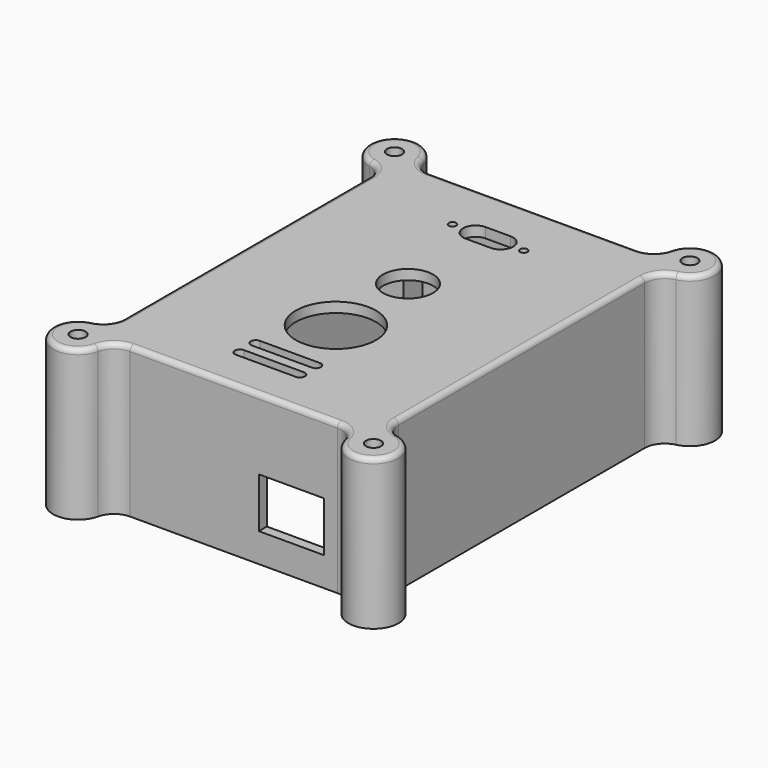
from build123d import *

# Parameters (mm, degrees)
SKETCH_R        = 1.5
PAD_DEPTH       = 30
SKETCH001_W     = 51
SKETCH001_H     = 71
POCKET_DEPTH    = 28
SKETCH002_W     = 4.8
SKETCH002_H     = 4.8
SKETCH002_R     = 0.9
PAD001_DEPTH    = 23
SKETCH003_W     = 4.8
SKETCH003_H     = 4.8
SKETCH003_R     = 0.9
PAD002_DEPTH    = 23
SKETCH004_W     = 4.8
SKETCH004_H     = 4.8
SKETCH004_R     = 0.9
PAD003_DEPTH    = 23
SKETCH005_W     = 4.8
SKETCH005_H     = 4.8
SKETCH005_R     = 0.9
PAD004_DEPTH    = 23
SKETCH006_R     = 5
POCKET001_DEPTH = 5
SKETCH007_R     = 8
POCKET002_DEPTH = 5
POCKET003_DEPTH = 5
SKETCH009_W     = 13
SKETCH009_H     = 10
POCKET004_DEPTH = 5
SKETCH010_R     = 0.75
POCKET005_DEPTH = 5
FILLET002_R     = 4
FILLET003_R     = 1


with BuildPart() as part:
    # Sketch → Pad (new body)
    with BuildSketch(Plane.XY):
        with BuildLine():
            ThreePointArc((-24.917424, 37.5), (-33.035534, 43.035534), (-27.5, 34.917424))
            Line((-27.5, 34.917424), (-27.5, -34.917424))
            ThreePointArc((-27.5, -34.917424), (-33.035534, -43.035534), (-24.917424, -37.5))
            Line((-24.917424, -37.5), (24.917424, -37.5))
            ThreePointArc((24.917424, -37.5), (33.035534, -43.035534), (27.5, -34.917424))
            Line((27.5, 34.917424), (27.5, -34.917424))
            ThreePointArc((27.5, 34.917424), (33.035534, 43.035534), (24.917424, 37.5))
            Line((-24.917424, 37.5), (24.917424, 37.5))
        make_face()
        with Locations((-29.5, 39.5)):
            Circle(SKETCH_R, mode=Mode.SUBTRACT)
        with Locations((29.5, 39.5)):
            Circle(SKETCH_R, mode=Mode.SUBTRACT)
        with Locations((-29.5, -39.5)):
            Circle(SKETCH_R, mode=Mode.SUBTRACT)
        with Locations((29.5, -39.5)):
            Circle(SKETCH_R, mode=Mode.SUBTRACT)
    extrude(amount=PAD_DEPTH)

    # Sketch001 (on Face13 of Pad) → Pocket (cut)
    with BuildSketch(Plane(origin=(0, 0, 0), x_dir=(1, 0, 0), z_dir=(0, 0, -1))):
        Rectangle(SKETCH001_W, SKETCH001_H)
    extrude(amount=-POCKET_DEPTH, mode=Mode.SUBTRACT)

    # Sketch002 (on Face19 of Pocket) → Pad001 (join)
    with BuildSketch(Plane(origin=(0, 0, 28), x_dir=(1, 0, 0), z_dir=(0, 0, -1))):
        with Locations((-23.1, 33.1)):
            Rectangle(SKETCH002_W, SKETCH002_H)
        with Locations((-23, 32.9)):
            Circle(SKETCH002_R, mode=Mode.SUBTRACT)
    extrude(amount=PAD001_DEPTH)

    # Sketch003 (on Face19 of Pad001) → Pad002 (join)
    with BuildSketch(Plane(origin=(0, 0, 28), x_dir=(1, 0, 0), z_dir=(0, 0, -1))):
        with Locations((23.1, 33.1)):
            Rectangle(SKETCH003_W, SKETCH003_H)
        with Locations((23, 32.9)):
            Circle(SKETCH003_R, mode=Mode.SUBTRACT)
    extrude(amount=PAD002_DEPTH)

    # Sketch004 (on Face21 of Pad002) → Pad003 (join)
    with BuildSketch(Plane(origin=(0, 0, 28), x_dir=(1, 0, 0), z_dir=(0, 0, -1))):
        with Locations((23.1, -33.1)):
            Rectangle(SKETCH004_W, SKETCH004_H)
        with Locations((23, -32.9)):
            Circle(SKETCH004_R, mode=Mode.SUBTRACT)
    extrude(amount=PAD003_DEPTH)

    # Sketch005 (on Face21 of Pad003) → Pad004 (join)
    with BuildSketch(Plane(origin=(0, 0, 28), x_dir=(1, 0, 0), z_dir=(0, 0, -1))):
        with Locations((-23.1, -33.1)):
            Rectangle(SKETCH005_W, SKETCH005_H)
        with Locations((-23, -32.9)):
            Circle(SKETCH005_R, mode=Mode.SUBTRACT)
    extrude(amount=PAD004_DEPTH)

    # Sketch006 (on Face21 of Pad004) → Pocket001 (cut)
    with BuildSketch(Plane(origin=(0, 0, 28), x_dir=(1, 0, 0), z_dir=(0, 0, -1))):
        with Locations((0, -6)):
            Circle(SKETCH006_R)
    extrude(amount=-POCKET001_DEPTH, mode=Mode.SUBTRACT)

    # Sketch007 (on Face22 of Pocket001) → Pocket002 (cut)
    with BuildSketch(Plane(origin=(0, 0, 28), x_dir=(1, 0, 0), z_dir=(0, 0, -1))):
        with Locations((0, 12)):
            Circle(SKETCH007_R)
    extrude(amount=-POCKET002_DEPTH, mode=Mode.SUBTRACT)

    # Sketch008 (on Face23 of Pocket002) → Pocket003 (cut)
    with BuildSketch(Plane(origin=(0, 0, 28), x_dir=(1, 0, 0), z_dir=(0, 0, -1))):
        with BuildLine():
            ThreePointArc((-6, 29.5), (-7, 28.5), (-6, 27.5))
            Line((-6, 27.5), (6, 27.5))
            ThreePointArc((6, 27.5), (7, 28.5), (6, 29.5))
            Line((-6, 29.5), (6, 29.5))
        make_face()
        with BuildLine():
            ThreePointArc((-6, 25.5), (-7, 24.5), (-6, 23.5))
            Line((-6, 23.5), (6, 23.5))
            ThreePointArc((6, 23.5), (7, 24.5), (6, 25.5))
            Line((-6, 25.5), (6, 25.5))
        make_face()
    extrude(amount=-POCKET003_DEPTH, mode=Mode.SUBTRACT)

    # Sketch009 (on Face9 of Pocket003) → Pocket004 (cut)
    with BuildSketch(Plane.XZ.offset(37.5)):
        with Locations((11.5, 10.8)):
            Rectangle(SKETCH009_W, SKETCH009_H)
    extrude(amount=-POCKET004_DEPTH, mode=Mode.SUBTRACT)

    # Sketch010 (on Face37 of Pocket004) → Pocket005 (cut)
    with BuildSketch(Plane(origin=(0, 0, 28), x_dir=(1, 0, 0), z_dir=(0, 0, -1))):
        with Locations((-7.115, -26)):
            Circle(SKETCH010_R)
        with Locations((7.115, -26)):
            Circle(SKETCH010_R)
        with BuildLine():
            ThreePointArc((-2.5, -23.5), (-5, -26), (-2.5, -28.5))
            Line((-2.5, -28.5), (2.5, -28.5))
            ThreePointArc((2.5, -28.5), (5, -26), (2.5, -23.5))
            Line((-2.5, -23.5), (2.5, -23.5))
        make_face()
    extrude(amount=-POCKET005_DEPTH, mode=Mode.SUBTRACT)

    # Fillet002
    fillet002_edges = [part.edges().sort_by_distance(p)[0] for p in [
        (-27.5, 34.917424, 15),
        (-24.917424, 37.5, 15),
        (27.5, 34.917424, 15),
        (24.917424, 37.5, 15),
        (-24.917424, -37.5, 15),
        (-27.5, -34.917424, 15),
        (27.5, -34.917424, 15),
        (24.917424, -37.5, 15),
    ]]
    fillet(fillet002_edges, radius=FILLET002_R)

    # Fillet003
    fillet003_edges = [part.edges().sort_by_distance(p)[0] for p in [
        (27.5, 0, 30),
    ]]
    fillet(fillet003_edges, radius=FILLET003_R)


solid = part.part
